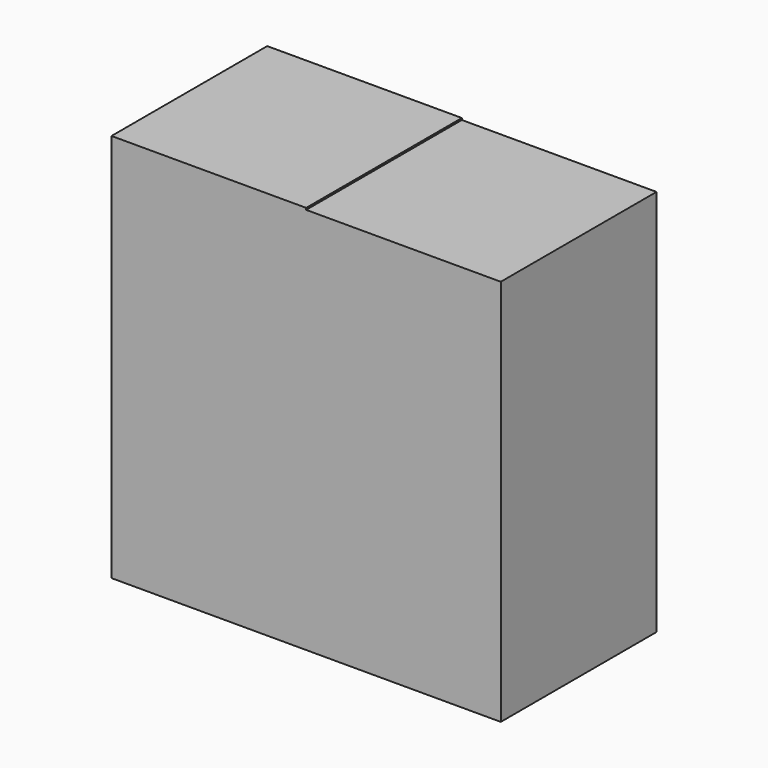
from build123d import *

# Parameters (mm, degrees)
F0_W     = 25.4
F0_H     = 25.169303
F0_H_2   = 25.4
F1_DEPTH = 25.4


with BuildPart() as f1:
    # F0 (on Front) → F1 (new body)
    with BuildSketch(Plane.XZ):
        with Locations((12.7, 12.584651)):
            Rectangle(F0_W, F0_H)
        Polygon((-25.4, 0), (0, 0), (0, 25.169303), (0, 25.4), (-25.4, 25.4), align=None)
        with Locations((-12.7, -12.7)):
            Rectangle(F0_W, F0_H_2)
        with Locations((12.7, -12.7)):
            Rectangle(F0_W, F0_H_2)
    extrude(amount=F1_DEPTH)


solid = f1.part
